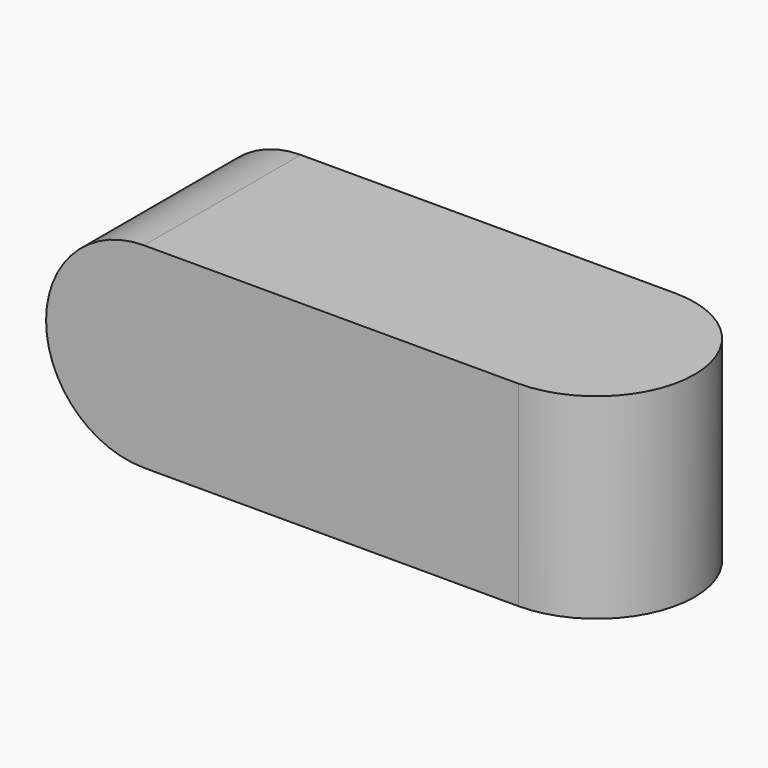
from build123d import *

# Parameters (mm, degrees)
F1_DEPTH = 25.4
F3_DEPTH = 25.4


with BuildPart() as f1:
    # F0 (on Front) → F1 (new body)
    with BuildSketch(Plane.XZ):
        with BuildLine():
            Line((48.516856, 25.4), (0, 25.4))
            ThreePointArc((0, 25.4), (-12.7, 12.7), (0, 0))
            Line((0, 0), (48.516856, 0))
            Line((48.516856, 0), (48.516856, 25.4))
        make_face()
    extrude(amount=F1_DEPTH)

    # F2 (on face) → F3 (join, through all)
    with BuildSketch(Plane.XY.offset(25.4)):
        with BuildLine():
            Line((48.516856, 0), (48.516856, -25.4))
            ThreePointArc((48.516856, -25.4), (61.216856, -12.7), (48.516856, 0))
        make_face()
    extrude(amount=-F3_DEPTH)


solid = f1.part
